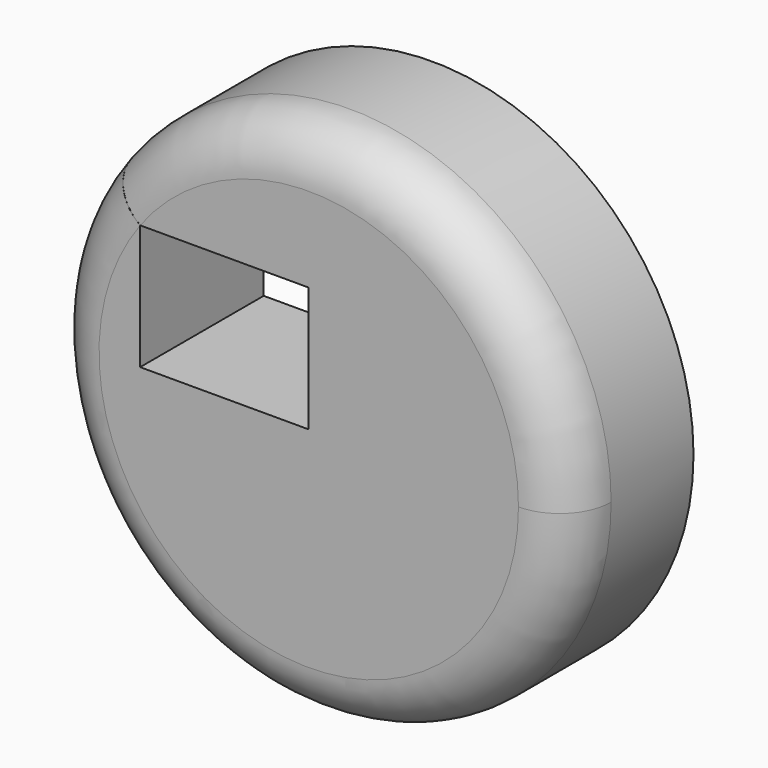
from build123d import *

# Parameters (mm, degrees)
F0_R     = 50.738989
F1_DEPTH = 30
F2_W     = 32.749631
F2_H     = 24.249479
F3_DEPTH = 96.840864
F4_R     = 10


with BuildPart() as f1:
    # F0 (on Front) → F1 (new body)
    with BuildSketch(Plane.XZ):
        Circle(F0_R)
    extrude(amount=F1_DEPTH)

    # F2 (on face) → F3 (cut)
    with BuildSketch(Plane(origin=(0, 0, 0), x_dir=(-1, 0, 0), z_dir=(0, 1, 0))):
        with Locations((16.374816, 12.124739)):
            Rectangle(F2_W, F2_H)
    extrude(amount=-F3_DEPTH, mode=Mode.SUBTRACT)

    # F4
    f4_edges = [f1.edges().sort_by_distance(p)[0] for p in [
        (-50.738989, -30, 0),
    ]]
    fillet(f4_edges, radius=F4_R)


solid = f1.part
